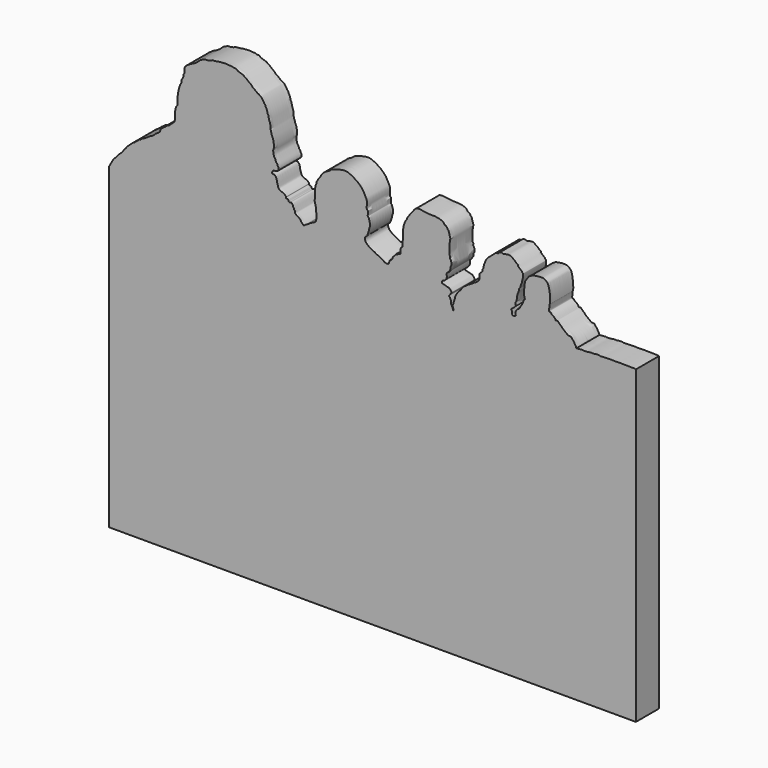
from build123d import *

# Parameters (mm, degrees)
F1_DEPTH = 6.35


with BuildPart() as f1:
    # F0 (on Front) → F1 (new body)
    with BuildSketch(Plane.XZ):
        with BuildLine():
            add(Edge.make_bspline(
                [(0, 69.85), (0.0921415418, 70.0257135189), (0.2651902471, 70.3557169346), (0.4771103669, 70.7393851652), (0.7713646416, 71.2815260113), (1.1131797321, 71.7793443846), (1.6290144424, 72.1522957372), (1.8640143104, 72.5727362219), (2.1586858553, 72.8923247189), (2.4541636377, 73.1359866452), (2.8241609081, 73.4610824382), (3.2267824858, 74.0021208965), (3.3548072506, 74.2509797523), (3.5398348626, 74.4192446976), (3.661690047, 74.5498463511)],
                knots=[0, 0, 0, 0, 0.0895319873, 0.168276062, 0.2606440338, 0.3537023041, 0.4472659724, 0.5293069206, 0.6064984634, 0.6790239896, 0.7637287207, 0.8604400657, 0.9223883982, 1, 1, 1, 1], degree=3))
            Line((0, 69.85), (0, 0))
            Line((0, 0), (115.8876510678, 0))
            Line((115.8876510678, 0), (115.8876510678, 68.2625))
            add(Edge.make_bspline(
                [(102.7780920267, 68.0728703737), (103.0678526313, 68.1091249913), (103.5630289883, 68.1710810654), (103.9755503207, 68.1686094663), (104.2438187478, 68.2602536473), (104.4337731285, 68.1018635069), (104.6805917106, 68.1632475428), (105.1597091029, 68.1369110626), (105.5886693797, 68.2329310081), (105.8545126294, 68.2985313298), (106.3511941076, 68.3054926155), (106.690545775, 68.2523940546), (106.9059132255, 68.3715837515), (107.6722912768, 68.3721563013), (107.9230605066, 68.3564220442), (107.9940160777, 68.2639735607), (108.3827468802, 68.2911397377), (108.9118144358, 68.3479626442), (109.183209054, 68.3277932011), (110.1538964831, 68.3718771815), (110.6467821017, 68.3771900777), (111.2721718397, 68.3189259448), (111.7344498981, 68.3314473002), (112.2333187348, 68.3824043852), (112.8793591764, 68.3435339768), (113.5308477817, 68.3531401717), (113.822361786, 68.3523321028), (114.3907709162, 68.3476948109), (114.9297272261, 68.3672236809), (115.3192185885, 68.3085816464), (115.6068065695, 68.3402632957), (115.7937041915, 68.2885130384), (115.8876510678, 68.2625)],
                knots=[0, 0, 0, 0, 0.0464620486, 0.0793997099, 0.1053517652, 0.1289190666, 0.1540158417, 0.1900576442, 0.2240856925, 0.2513038119, 0.287611369, 0.3170480385, 0.3425220982, 0.3877715338, 0.4129597099, 0.4281077432, 0.4594708574, 0.4971721798, 0.5252242019, 0.5750243853, 0.6131794684, 0.6531364958, 0.6883438958, 0.7244107563, 0.7667273023, 0.8078596891, 0.8359120647, 0.8743241361, 0.9129914879, 0.9450230897, 0.9723650363, 1, 1, 1, 1], degree=3))
            add(Edge.make_bspline(
                [(82.4942365289, 77.6973888278), (82.5288113961, 77.775026942), (82.6080235874, 77.9528984901), (82.7423090133, 78.3733890894), (83.1218262299, 79.1141031693), (83.5780231005, 79.4990641424), (83.8444900761, 79.6981420627), (84.1585140435, 79.9687925898), (84.4756569501, 80.2497419341), (84.8517460296, 80.60221357), (84.9721520059, 80.7100466151), (85.1401109076, 80.8234064463), (85.252854827, 80.8570062282), (85.4785303379, 80.8681916252), (85.6131673583, 80.8328306515), (85.9336802108, 81.189801597), (86.0064682382, 81.2079500995), (86.1831120323, 81.2556600253), (86.4085447023, 81.2637891766), (86.5784146669, 81.2306655764), (86.653030457, 81.1382280053), (86.9778178859, 81.1461087981), (87.1740136086, 81.2541170858), (87.5477045393, 81.2887980174), (87.7919748257, 81.3291811297), (88.0248866618, 81.3579947374), (88.2136420735, 81.3184891615), (88.5100974609, 81.196119662), (88.6522091511, 81.045416078), (88.8465764517, 80.9552095822), (88.9824073591, 80.7959078717), (89.1977764992, 80.7457339086), (89.3523170766, 80.5113339918), (89.5608900454, 80.323632325), (89.7039830934, 80.179297153), (89.9458712487, 80.1667926046), (89.9658007762, 79.7519301323), (90.1532228989, 79.658935211), (90.3801916197, 79.4621341458), (90.5437022861, 79.3319395064), (90.70435884, 79.1813163643), (90.866401295, 79.0523892631), (90.8362722249, 78.8580890743), (91.0691790354, 78.8257033345), (91.0868089015, 78.5287986712), (90.9902330472, 78.235604763), (91.0823134452, 78.0633396014), (91.0296901702, 77.7919626591), (90.9063895954, 77.5156379858), (90.8634861917, 77.1950644261), (90.8354239076, 76.9103964668), (90.6385681372, 76.5815562118), (90.5751177739, 76.3412180448), (90.4637324957, 75.9616028729), (90.4281221822, 75.7123534716), (90.1591098071, 75.5835206024), (90.180440435, 75.3316426558), (90.1151250477, 74.9319468329), (89.9238228092, 74.5535229612), (89.8284133652, 74.2625213488), (89.7511194969, 73.940920216), (89.7985381327, 73.7929534349), (89.7006828709, 73.4602794414), (89.6818187196, 73.2626852535), (89.6042172212, 73.1075121496), (89.6377120666, 72.9887654768), (89.6029010853, 72.777134574), (89.3506630936, 72.669094677), (89.4088491694, 72.3780792202), (89.4422424881, 72.1630873451), (89.5209143767, 72.0268269672), (89.2871964916, 71.803136052), (89.2252091376, 71.6020867573), (89.0206618615, 71.5258314116), (88.9183444526, 71.3919098736), (88.7932479956, 71.3126596359), (88.6493437077, 71.1999517769), (88.5485147361, 71.1276424726), (88.4304741817, 71.0140555834), (88.5044945938, 70.9264918817), (88.5546007889, 70.8010669044), (88.6347314234, 70.633114588), (88.6632439182, 70.4693258358), (88.6512892399, 70.304310775), (88.6327197522, 70.0958992619), (88.7082020231, 69.9473148196), (88.8569212037, 69.9149248455), (89.0053255912, 69.8881206529), (89.2076090358, 69.8853306801), (89.3369747072, 69.9923057712), (89.5024516146, 70.1189427473), (89.419553172, 70.3359400008), (89.436816232, 70.5182813215), (89.4591281922, 70.8434001884), (89.471964737, 70.9901464146), (89.5628730954, 71.1172801027), (89.7123302789, 71.3118186597), (89.8834096733, 71.430573839), (89.9161325485, 71.5915502098), (90.0706706378, 71.5434545555), (90.2132525354, 71.6367788185), (90.3173481568, 71.8256760988), (90.4504001196, 72.0445889158), (90.5627351352, 72.2711564045), (90.6867337239, 72.4322301619), (90.8163804962, 72.5848279695), (90.8885943801, 72.7922439498), (90.9734542599, 72.9064105256), (91.0146968545, 73.1392744078), (91.1090285579, 73.2786147693), (91.1427259, 73.4036533396), (91.1662873099, 73.619767885), (91.3138970954, 73.6893703374), (91.4131530974, 73.8208700029), (91.4515215018, 73.8775481006), (91.4414999232, 74.0375096769), (91.4306726532, 74.2055367266), (91.3920296155, 74.4372815751), (91.2475781995, 74.6265788909), (91.2798845607, 74.9187969299), (91.3147216779, 75.1810440875), (91.31464946, 75.432583523), (91.2811082193, 75.692020339), (91.3306350254, 75.9555644759), (91.3758680773, 76.2419145797), (91.3811404437, 76.6961063978), (91.4683250518, 77.1092753228), (91.5218057931, 77.439712131), (91.7550388776, 77.6895663835), (91.8833326042, 78.0055531165), (92.1500900976, 78.2683026591), (92.2719614902, 78.540934205), (92.6214043856, 78.7613942972), (92.8549574034, 78.9000802787), (93.1687653249, 79.0842072414), (93.5941479267, 79.1529949509), (93.9373872163, 79.2180173487), (94.2565841786, 79.2712361347), (94.6047368385, 79.3173575762), (94.8752908201, 79.3047145342), (95.2743003685, 79.31235156), (95.5747571205, 79.2969075024), (95.900291388, 79.1550673796), (96.3088467063, 78.8198696398), (96.568577426, 78.5050439708), (96.691423625, 78.115190665), (96.8111575707, 77.6527989515), (96.8334028984, 77.4484133717), (96.8810426942, 77.2615255967), (96.8792903596, 77.0400440183), (96.9449165305, 76.8469618236), (96.9771592438, 76.6573778621), (96.9617309753, 76.3004696093), (96.9822226857, 76.0387438546), (96.9761296148, 75.6792017498), (97.0522556666, 75.5850829026), (97.0347625265, 75.3432302619), (97.0144579573, 75.0759188521), (97.0091413974, 74.9225468716), (97.0419469487, 74.7211249534), (96.8277748996, 74.7500310887), (96.90941757, 74.4340866509), (96.8402406334, 74.1135156342), (96.8272015258, 73.7597699169), (96.7614738254, 73.5668982934), (96.7952281269, 73.4096498088), (96.8251162808, 73.2386122446), (96.9961693694, 73.1944369165), (97.1326917858, 73.2142981347), (97.2076574752, 73.0272237153), (97.3770305277, 72.9175402217), (97.5918724029, 72.7354152159), (97.8127776913, 72.6137603644), (98.0176588651, 72.3733277881), (98.1940552123, 72.2292767364), (98.2059448108, 71.9757963323), (98.4704712528, 72.0331786732), (98.680629636, 72.0639328539), (98.792317189, 71.8854779093), (98.9855331196, 71.7322699582), (99.2092864859, 71.4788307334), (99.4565903443, 71.3556751789), (99.6715103865, 71.0086040072), (99.9307665495, 70.8208752601), (100.1952639606, 70.6207864569), (100.412161518, 70.4048818077), (100.6808014427, 70.2370768487), (100.9199568082, 70.0315157179), (101.1876277214, 69.9439036165), (101.4072994066, 69.9346778276), (101.6586791189, 69.9359381624), (101.8536407819, 69.6443213341), (102.1495495994, 69.2977872447), (102.3651298857, 68.951685965), (102.472759003, 68.7494849622), (102.5779211675, 68.5416132411), (102.7199362191, 68.4026241218), (102.7570118835, 68.192398526), (102.7780920267, 68.0728703737)],
                knots=[0, 0, 0, 0, 0.0053209742, 0.012190532, 0.0216795232, 0.0296244018, 0.0355343219, 0.0420496961, 0.0490232063, 0.0563339465, 0.0605867726, 0.0650432073, 0.0686955716, 0.0734472436, 0.0772997502, 0.0841731997, 0.0871351432, 0.0913876443, 0.0964391834, 0.1005778128, 0.1039598963, 0.1095619931, 0.1146358287, 0.1208566808, 0.1261235766, 0.1309834991, 0.1355623991, 0.1413383179, 0.1460676486, 0.1507625295, 0.1554101875, 0.1600932982, 0.1654936772, 0.1710180059, 0.1755996291, 0.1801405549, 0.1862419433, 0.1908801346, 0.1964840098, 0.2012779114, 0.2061382898, 0.2107049033, 0.2147273572, 0.2190291907, 0.2243116232, 0.2300338635, 0.2343982485, 0.239665946, 0.245427463, 0.2512472629, 0.2568129503, 0.2630623828, 0.2683463223, 0.2747995521, 0.2799051442, 0.2850424527, 0.2899281238, 0.2965332556, 0.3032690934, 0.3091156904, 0.3148602238, 0.3189356023, 0.3248920092, 0.3296521828, 0.3337384274, 0.3373075136, 0.3418389342, 0.3468128505, 0.3521033197, 0.3570105302, 0.3606981865, 0.3662710666, 0.3710236468, 0.3756247352, 0.3798134552, 0.3838009011, 0.3881690351, 0.3919773759, 0.3957857901, 0.3988985117, 0.4027449331, 0.4072130091, 0.4113923767, 0.4156141681, 0.4203327279, 0.4243252639, 0.4281836227, 0.4322737172, 0.4367891974, 0.4410318417, 0.4454347691, 0.4500333316, 0.4546150775, 0.4604840806, 0.4644181538, 0.4683817492, 0.473542257, 0.4782843105, 0.4819474282, 0.4856038054, 0.4897029173, 0.4944918944, 0.499776703, 0.5049768061, 0.5096122832, 0.5142477604, 0.5190038395, 0.5229259927, 0.5278795881, 0.5320824121, 0.5358238393, 0.5404358772, 0.5445336637, 0.5486316239, 0.551289683, 0.5552646087, 0.5596264048, 0.5645595306, 0.5694977199, 0.5749716543, 0.5803428634, 0.5855039707, 0.5907673936, 0.5960487119, 0.6016170392, 0.6085913877, 0.6153749041, 0.6212486282, 0.6271525236, 0.6331991465, 0.6394238555, 0.6450620236, 0.651550297, 0.6570149194, 0.6631621489, 0.669960158, 0.6760811211, 0.6819776122, 0.6880264008, 0.6934762638, 0.6999562612, 0.705604032, 0.7116800336, 0.7191945511, 0.7257546452, 0.7324063173, 0.7395258741, 0.7441960504, 0.7486449283, 0.7535082938, 0.7581039584, 0.7626556933, 0.7687287165, 0.7743201477, 0.7803130203, 0.7837759154, 0.7887344913, 0.7941446268, 0.798378823, 0.8024363415, 0.8060593809, 0.8112208877, 0.8174228268, 0.8235454395, 0.8281249048, 0.8322227602, 0.8363171435, 0.8404109576, 0.8440025682, 0.8482742433, 0.8529637067, 0.8584091103, 0.8636513341, 0.8694213295, 0.8743574983, 0.8788545291, 0.8837061283, 0.8883511308, 0.8927580323, 0.8979598275, 0.9039079325, 0.9093325045, 0.9157997275, 0.9216979349, 0.927607908, 0.9333232572, 0.9391327347, 0.9449421723, 0.9503422636, 0.9552021862, 0.9600871606, 0.9659784734, 0.9731211287, 0.9796985467, 0.9846566948, 0.9895276918, 0.9940457505, 1, 1, 1, 1], degree=3))
            add(Edge.make_bspline(
                [(43.7057316303, 72.9141160846), (43.7517167858, 72.9455266256), (43.8457670167, 73.0097684141), (43.9988094805, 73.1039682242), (44.2012531325, 73.2214072182), (44.3590761202, 73.3212083588), (44.5814169711, 73.4580187209), (45.0072799942, 73.6557445959), (45.2095246456, 73.7490898656), (45.3197418667, 73.8519630724), (45.4341935095, 73.9322952768), (45.5155073368, 74.0720484974), (45.5656583917, 74.257701019), (45.5841274511, 74.4891392677), (45.6313410469, 74.7233686889), (45.6007136481, 75.0131117142), (45.6214127477, 75.2997920258), (45.5751569853, 75.5100705231), (45.5928104168, 75.7449539401), (45.5703882864, 75.9179502435), (45.5381510043, 76.0654188175), (45.5828115796, 76.2696739691), (45.5015983995, 76.5654767793), (45.5030966923, 76.8034564269), (45.4417253555, 76.9722146342), (45.3912296815, 77.1356972304), (45.3524852314, 77.3408689867), (45.3143159238, 77.5896926163), (45.2433574215, 77.7526719332), (45.2570198965, 78.0013028143), (45.2439392833, 78.1911806291), (45.2862639065, 78.4409697272), (45.2695000944, 78.6778026409), (45.3376012107, 78.9774631158), (45.3711345608, 79.3180143946), (45.2768008561, 79.6862490087), (45.2909859349, 79.9529110342), (45.3167338608, 80.2595716599), (45.3680755482, 80.5320350196), (45.3981232133, 80.8782685533), (45.4564054233, 81.104850597), (45.6326616913, 81.3099216489), (45.5419379112, 81.5556167991), (45.7677484719, 81.8716842039), (45.9417928628, 82.1572811868), (46.0237125832, 82.4540425767), (46.3517462501, 82.6997001273), (46.4646959309, 82.9738644817), (46.6045558149, 83.2590340976), (46.9022806817, 83.6351224458), (47.3823744825, 84.2524840282), (48.1188109045, 84.5679882886), (48.6723331571, 84.9141191188), (48.8140593854, 85.1322590095), (49.203633398, 85.2988019026), (49.812349932, 85.4358619147), (50.1406276319, 85.6731419255), (50.7788594278, 85.7269762779), (51.2567615181, 85.8748213032), (51.6754276237, 85.9098574329), (52.1708326629, 85.9036337283), (52.6271729734, 85.8135083524), (52.957288485, 85.6176999011), (53.3071258247, 85.5287758998), (53.7234684613, 85.3585695682), (54.0539162084, 85.0149632335), (54.5639852232, 84.7409282531), (55.0041346274, 84.3740841436), (55.3881872996, 83.9601598511), (55.6934759114, 83.696527623), (55.9179510016, 83.3292064553), (56.1481176433, 82.9031106519), (56.5022050398, 82.2297556025), (56.6577035451, 81.846029488), (56.7154258248, 81.6690597297), (56.6901663307, 81.2260737959), (56.7177183656, 80.742368264), (56.6449181356, 80.2908637973), (56.7257090301, 79.9564091453), (57.0167102067, 79.7876134942), (56.8880744928, 79.5565179022), (56.9536770746, 79.1120216628), (56.8694385665, 78.8599624429), (56.9518015876, 78.5642180524), (57.1330221025, 78.5742371707), (57.1470030504, 78.2784194439), (57.2767463654, 78.0144653488), (57.3652672613, 77.6233685616), (57.3953894028, 77.2892426122), (57.3974306215, 76.8172403978), (57.2698189618, 76.599236418), (57.190876091, 76.3635208846), (57.1916457827, 75.9942423657), (57.0252456316, 75.6635080435), (56.9694940576, 75.4156303313), (56.862223324, 75.123527248), (56.7731050636, 74.8984184659), (56.5237605691, 74.6600150215), (56.3561848884, 74.6221514493), (56.3255831227, 74.3985995894), (56.3283510203, 74.0982326981), (56.3542033884, 73.8577822483), (56.4856739753, 73.5907885052), (56.7440289082, 73.2759696196), (57.367545993, 72.794303385), (57.8098319544, 72.5940911977), (58.1855810695, 72.3425159251), (58.4150865805, 72.3052810673), (58.6940396414, 72.0964269008), (58.9326424809, 71.9075306008), (59.1328190647, 71.9184614189), (59.3673566848, 71.8716768529), (59.5080861315, 71.6817802835), (59.8106005787, 71.5892591736), (60.0347407193, 71.4025657174), (60.208307963, 71.3132838915), (60.4563303118, 71.2054945077), (60.5822721621, 71.0146559485), (60.743671532, 71.0240035773), (60.8927789656, 70.8984701368), (61.1172688002, 70.9659284331), (61.2187344213, 70.9049560965), (61.4436819211, 70.931263432), (61.5056863278, 70.9456121011), (61.5436891803, 71.0840084704), (61.5576765336, 71.1957019219), (61.6233077139, 71.3888919566), (61.6841672573, 71.5676530277), (61.7225825959, 71.7343503409), (61.8392114129, 71.8816251793), (62.0259554909, 71.9171115682), (62.1949546299, 72.0758299443), (62.348488184, 72.2677879138), (62.4124866804, 72.553250154), (62.4992725828, 72.7303487974), (62.6682771339, 72.7902807665), (62.8193122203, 73.0155659262), (62.9694263862, 73.1936107396), (63.0203417643, 73.3785228251), (63.2609130276, 73.4263221879), (63.3668618811, 73.4302441012), (63.5508515359, 73.544635477), (63.658914377, 73.5689037692), (63.7678067141, 73.6959797706), (64.0554396044, 73.6406609452), (64.1100536128, 73.9553560005), (64.1154495904, 74.3882141128), (64.0971483256, 74.5445727509), (64.0865023294, 74.7563107867), (64.2427418191, 74.9984033749), (64.3993418749, 75.1894326195), (64.6264930957, 75.2684518769), (64.5376030666, 75.684241493), (64.5857079488, 76.291304685), (64.6276801775, 76.7567599784), (64.7161729308, 77.0298538678), (64.6830138717, 77.3896324133), (64.6809288175, 77.7807066414), (64.6909564847, 78.1712179205), (64.6907379606, 78.8030219849), (64.7346791941, 79.2234957135), (64.764189408, 79.4776049165), (64.8953560746, 79.651538951), (64.9331551082, 79.8584054746), (65.0564250269, 80.1881497582), (65.2034951598, 80.5292483845), (65.3464908178, 80.7550591173), (65.5123440428, 80.9386097316), (65.579345395, 81.1436881767), (65.6782575824, 81.3860486134), (65.861264836, 81.5911807887), (66.041302867, 81.8567181689), (66.1589597315, 82.1211082073), (66.3328439988, 82.3068646438), (66.509772593, 82.5525518048), (66.6610982746, 82.6600478835), (66.8493898885, 82.8882709924), (66.956939477, 83.0105131337), (67.0312827288, 83.1908322336), (67.1844335758, 83.3793914109), (67.3155477125, 83.5257123875), (67.5576266692, 83.7049785843), (67.7297705607, 83.7425825389), (67.9316491071, 83.7923050231), (68.2087127315, 83.8109913553), (68.3996638997, 83.8139411099), (68.6653050149, 83.7821864282), (68.9061263973, 83.7291200914), (69.2345099547, 83.6761105716), (69.5274284327, 83.6703609946), (69.9063696949, 83.5922541132), (70.2506719223, 83.5680322903), (70.5231737914, 83.5327384719), (70.8255924712, 83.5473828015), (71.083530196, 83.5246203648), (71.3597074816, 83.5289161354), (71.607790488, 83.5340288347), (71.8477189792, 83.5104525472), (72.0673210221, 83.4592189378), (72.2876646497, 83.4352753759), (72.5180788332, 83.4021540397), (72.7107919788, 83.4175313582), (72.7937770545, 83.3296178358), (72.9695384303, 83.2622351026), (73.1115012235, 83.2290434702), (73.2885456415, 83.1159873686), (73.4731088947, 83.046042807), (73.6373770663, 82.8628278047), (73.7267415101, 82.735130869), (73.8472850777, 82.5492886024), (74.0864009031, 82.494977169), (74.307229949, 82.2610830793), (74.3959662579, 82.1039422904), (74.4518244536, 81.9413573253), (74.5623097798, 81.8814743504), (74.6745154406, 81.8082491362), (74.7129560047, 81.6133138653), (74.7590463767, 81.4809109173), (74.761137282, 81.3016021966), (74.8722775367, 81.1896769736), (74.861490482, 81.0390536773), (74.9083550475, 80.8501359225), (75.0048003324, 80.718142224), (75.0242923994, 80.5101967813), (75.1192439706, 80.2976742773), (75.0406180709, 80.154936859), (74.9739641434, 80.0023521945), (74.9661669212, 79.8438279583), (74.9900938645, 79.7052181892), (74.9743976967, 79.549241621), (74.8374193504, 79.4670545837), (74.9389331106, 79.2429863275), (74.8727996984, 78.5534510475), (74.9293323106, 78.1126226584), (74.8927267595, 77.6552649944), (74.9288566932, 77.3559174722), (74.8793468714, 76.9324308124), (75.1245530939, 76.834757941), (74.9574508527, 76.3792847225), (75.1819636257, 76.2811749575), (75.2051387477, 75.9354662754), (75.37566732, 75.7899435657), (75.2749004172, 75.3406728785), (75.2761852125, 75.0312903254), (75.0529447232, 74.9040094694), (75.1263899101, 74.5355103233), (75.0273392427, 74.22162251), (74.8209672146, 73.9559936113), (74.7276332226, 73.8002571147), (74.6799633679, 73.6301198306), (74.5492879034, 73.5591250327), (74.4053522582, 73.5039368947), (74.2673552208, 73.3616094923), (74.269706219, 73.0525513458), (74.3145903807, 72.699090988), (74.2683649494, 72.4020589567), (74.1518559366, 72.1597632919), (73.9814453872, 72.0251393685), (73.8293775866, 71.7667031668), (73.5979851791, 71.7104343369), (73.368048313, 71.6937296498), (73.25620153, 71.5241909805), (73.1733217125, 71.0656595012), (73.494242993, 71.0283223602), (73.7913046656, 70.9268111615), (74.0926205619, 70.8493632946), (74.2989593129, 70.7991315835), (74.5454457177, 70.694883679), (74.8169359898, 70.6961367938), (74.9719652042, 70.4717304634), (75.1302748416, 70.3854938903), (75.2204692295, 70.2118488336), (75.297134417, 70.0756584049), (75.3678285786, 69.9850127793), (75.3111623829, 69.8192980332), (75.1327706082, 69.640706804), (75.0087815867, 69.463783305), (74.8397682451, 69.221647825), (74.7900989908, 69.0594257942), (74.957237798, 68.9677464932), (75.0181610401, 68.7980616485), (75.0893794951, 68.6346931618), (75.2469543896, 68.3448761776), (75.1552329378, 67.9989143179), (75.2308754539, 67.7208611066), (75.3524824177, 67.5028009883), (75.5346478768, 67.0955126938), (75.6561215824, 66.8418177655), (75.6661116918, 66.5212376846), (75.7957702994, 66.6061603303), (75.714236622, 66.9524658519), (75.6235759344, 67.2422666476), (75.5437151183, 67.5574667777), (75.745047657, 67.8727798821), (75.8123987882, 68.3136661673), (75.9972609577, 68.6770083187), (76.0655330156, 69.0206353551), (76.129414817, 69.3990266168), (76.2451612569, 69.7300057967), (76.560851901, 70.1423187513), (76.7167102884, 70.4891690791), (77.066617605, 70.8504446649), (77.3326622295, 71.0448211378), (77.4817253783, 71.3540545214), (77.7140438752, 71.5560828323), (77.8227593872, 71.8522339954), (78.2354466429, 72.0882358813), (78.5955605258, 72.3932693165), (79.0702004576, 72.7021302349), (79.780482431, 73.0799791677), (80.0663635437, 73.3330749066), (80.5332050095, 73.5677816351), (80.8940747125, 73.8318649385), (81.2464792382, 74.0714034291), (81.3433764474, 74.3235309864), (81.4525604712, 74.4832206875), (81.464603708, 74.7636303452), (81.4289556836, 75.0493441422), (81.4415262437, 75.4413659743), (81.5686776675, 75.7247825349), (81.6867210704, 75.8445418684), (81.8579434819, 75.958025037), (82.0130286889, 76.1304362881), (82.149681236, 76.2286782971), (82.1353844434, 76.5104501806), (82.1346247846, 76.6798445645), (82.2917757079, 76.8098115821), (82.3551931527, 76.9128938505), (82.421062199, 76.9893513309), (82.3888442818, 77.3154426756), (82.4573528516, 77.5637207543), (82.4942365289, 77.6973888278)],
                knots=[0, 0, 0, 0, 0.002378802, 0.0048651979, 0.0076680152, 0.0101543844, 0.0131498333, 0.0171648796, 0.0199239668, 0.0221168081, 0.0242651779, 0.0265632538, 0.0291126991, 0.0319101286, 0.0347516012, 0.0378987073, 0.0410095221, 0.043711791, 0.0465158077, 0.0489402475, 0.0511484063, 0.0537687986, 0.0569949328, 0.0598417436, 0.0622647289, 0.0646473692, 0.0673298857, 0.0702318789, 0.0726944993, 0.0755347296, 0.0781140687, 0.0809959057, 0.083836136, 0.0870311816, 0.0904610907, 0.0940126737, 0.0970310573, 0.100211483, 0.1033254954, 0.1067310389, 0.109566111, 0.1124211026, 0.1151909374, 0.1187177621, 0.1221231286, 0.1252980972, 0.1289348107, 0.1320769007, 0.1352854341, 0.1392991076, 0.1444102139, 0.1497135056, 0.1543115766, 0.1571639807, 0.1608690053, 0.1654598083, 0.1691648484, 0.1737436955, 0.1778922072, 0.1816305552, 0.1857273883, 0.1896899782, 0.1932474883, 0.1967298728, 0.200576785, 0.2045796052, 0.2089857189, 0.2134316891, 0.217788781, 0.2214711784, 0.2251900153, 0.2293072535, 0.2344429174, 0.2381220988, 0.2405574301, 0.2443501909, 0.2485049583, 0.2524259135, 0.2557530836, 0.2587795285, 0.2614732484, 0.2653287321, 0.2684331893, 0.2713732888, 0.2734439373, 0.2763305698, 0.2795898847, 0.2832107345, 0.286678539, 0.290610929, 0.2934948388, 0.2963342073, 0.2998629429, 0.3033753626, 0.3063309315, 0.3095184381, 0.3124470855, 0.3157925538, 0.3180470376, 0.3206257115, 0.3238635632, 0.3267191372, 0.329781466, 0.3335219205, 0.338664612, 0.3428481176, 0.3466362892, 0.3494137611, 0.3528237227, 0.3559960542, 0.3585454808, 0.3612896315, 0.3640442015, 0.3672917301, 0.3704105747, 0.3729943338, 0.3759985241, 0.3786691363, 0.3808579045, 0.3833357695, 0.3859938691, 0.3880213559, 0.3907170333, 0.3921259764, 0.3941927978, 0.3962205714, 0.3988203483, 0.4013828976, 0.4037782547, 0.4061988902, 0.4086767753, 0.411431316, 0.41432776, 0.4174714326, 0.419966511, 0.4223260296, 0.4253336819, 0.4281680509, 0.4305956713, 0.4333019178, 0.4352859662, 0.4379137944, 0.4398635885, 0.4421070605, 0.4449010438, 0.4479074187, 0.4517885915, 0.4541145986, 0.4566806387, 0.459791136, 0.4627009347, 0.4652172065, 0.4687322994, 0.4734083445, 0.4773731354, 0.4804333762, 0.4838866169, 0.4875068244, 0.4911822991, 0.4958272439, 0.499648975, 0.502516723, 0.5051347593, 0.5077713327, 0.5112336907, 0.5148133052, 0.5178232915, 0.520662892, 0.5233511639, 0.5262937988, 0.5293521534, 0.5326540468, 0.5357610054, 0.5387193276, 0.5418634796, 0.5444252614, 0.5475412387, 0.5499086282, 0.552439127, 0.5552787009, 0.5579217618, 0.5610588687, 0.5634935346, 0.5661386132, 0.5691891666, 0.5717680654, 0.5747218191, 0.5776573159, 0.5809742485, 0.5841537322, 0.5877669421, 0.5911950358, 0.5942455927, 0.5974200447, 0.600399437, 0.6034442494, 0.6063536948, 0.6092000711, 0.6119549448, 0.6146980855, 0.6175444618, 0.6200061218, 0.6219562257, 0.6244340706, 0.6266921522, 0.6293099589, 0.6319277458, 0.6347529483, 0.6370946878, 0.639714868, 0.6425631266, 0.6458114115, 0.6483266918, 0.6506524956, 0.6526602833, 0.6547304048, 0.6572553328, 0.659488583, 0.6618831762, 0.6640912995, 0.666299515, 0.6688400555, 0.6711658593, 0.6738194752, 0.676554637, 0.6788129306, 0.6811827371, 0.6834756197, 0.6856790459, 0.6879021949, 0.689940746, 0.6925678821, 0.6974001379, 0.701430925, 0.7052537826, 0.7085724572, 0.7121452852, 0.7147225212, 0.7183488825, 0.7209261867, 0.7241670582, 0.7267950796, 0.7306314607, 0.7338287838, 0.7364506236, 0.7398218455, 0.7432071035, 0.7465441659, 0.7490392568, 0.751390424, 0.7535611932, 0.7558369157, 0.7582926404, 0.761465758, 0.7649842401, 0.7681712607, 0.7711095068, 0.7738253325, 0.7769220273, 0.7797177512, 0.7823856271, 0.7849628915, 0.7885892528, 0.7914988992, 0.7948515828, 0.798075449, 0.8007608284, 0.8037460569, 0.8066970809, 0.8096068637, 0.8120625161, 0.8145973529, 0.8169133137, 0.8187716662, 0.8210633165, 0.8239791608, 0.8267579007, 0.8299308811, 0.8320981461, 0.8344347479, 0.8368624639, 0.8393371788, 0.842596831, 0.8460364783, 0.8490708803, 0.8520071111, 0.8558469198, 0.8591510069, 0.8620313517, 0.8635285587, 0.866884428, 0.8702485528, 0.8734150715, 0.8768804625, 0.8807742405, 0.8844733586, 0.8879141659, 0.8914754502, 0.8949408751, 0.8990729068, 0.9027311528, 0.9067931293, 0.9101467866, 0.9134838805, 0.9166672197, 0.9198402001, 0.9237697776, 0.927767522, 0.9322182017, 0.9373964249, 0.941041034, 0.9451580459, 0.9491387717, 0.9528788728, 0.9558186813, 0.9583319168, 0.9613261997, 0.9645020362, 0.9681554741, 0.9713476064, 0.9736865931, 0.9763123911, 0.9791124751, 0.9814127247, 0.9843945422, 0.9867824568, 0.9893179024, 0.9913258284, 0.9930509976, 0.9962587927, 1, 1, 1, 1], degree=3))
            add(Edge.make_bspline(
                [(3.661690047, 74.5498463511), (3.7014516235, 74.6047661295), (3.7878521727, 74.7241049341), (3.9702399484, 74.978467067), (4.1121445813, 75.0975348586), (4.4154473126, 75.435513839), (4.7387919107, 75.6478369771), (4.9953532609, 75.962465927), (5.1951935065, 76.0603817471), (5.3588927759, 76.2891482942), (5.5844639592, 76.2096286792), (5.8424978319, 76.5682828683), (6.1542196803, 76.7672650785), (6.3411713258, 76.9640098333), (6.6045527365, 77.1466442139), (6.7296516587, 77.2688083874), (6.9174103684, 77.2389737543), (7.0757864723, 77.4194444681), (7.2339835406, 77.6148841543), (7.4409849183, 77.7101629585), (7.8229009129, 77.8332352008), (8.2353835845, 78.1345076335), (8.6441295841, 78.3376255667), (8.882952504, 78.6180269614), (9.2224251747, 78.7104927431), (9.48361963, 78.8332845421), (9.8579228868, 79.106836876), (10.1478773797, 79.4436052005), (10.4635294649, 79.68426276), (10.8224407529, 79.8380655376), (10.9488497227, 80.096996622), (11.2588353968, 80.2024244202), (11.2539572228, 80.4864986215), (11.3265956922, 80.8361058852), (11.5807769319, 80.9717909293), (11.9785176286, 81.3242016047), (12.224269387, 81.437083561), (12.4823930325, 81.6171515202), (12.5275896073, 81.7944065385), (12.7505805902, 81.846472114), (12.8624004561, 81.9822624634), (13.0065229043, 82.0642325647), (13.1593035997, 82.0262950528), (13.3340215178, 82.2186100778), (13.5295120274, 82.3857427564), (13.7940933346, 82.6025916313), (13.9552921604, 82.788721081), (14.2471204828, 83.0225653448), (14.4101948659, 83.1994332796), (14.490130279, 83.5566933682), (14.5349196291, 84.0499237118), (14.5178172818, 84.3737738377), (14.4904259084, 84.628897133), (14.5867065015, 84.7074225487), (14.5493734427, 85.0314193289), (14.5600058613, 85.3819750638), (14.6367045977, 85.8082122886), (14.7531462555, 86.0915498787), (14.7718980175, 86.3411741297), (14.9269246657, 86.4802631753), (15.0655026203, 86.6231515356), (15.0228345823, 87.0447699513), (15.0617530726, 87.4779898026), (15.082322051, 87.8492936781), (14.9910499292, 88.0271745238), (15.12968733, 88.3666632491), (15.1207921986, 88.6465249133), (15.1879400922, 89.0912303929), (15.3084641257, 89.4178865461), (15.3221854839, 89.7822190528), (15.4298603201, 90.1551267675), (15.5501930879, 90.5341932953), (15.8090597525, 91.1031444872), (16.0128015328, 91.2595647171), (15.9719571628, 91.5762920084), (15.950442809, 91.840349127), (16.175388815, 92.1334103593), (16.2844601571, 92.4332070719), (16.4219833927, 92.6762462844), (16.3370766857, 92.9694525383), (16.5254006311, 93.1628854253), (16.649634421, 93.3172521384), (16.5632339124, 93.6331370634), (16.6341525632, 93.9298060251), (16.5863682494, 94.3102408189), (16.6824954673, 94.4988644441), (16.7722482465, 94.7497498124), (16.9476886994, 94.7989931187), (17.0570239453, 94.9908520513), (17.3108561032, 95.0895881534), (17.5729463576, 95.3169831648), (17.8401330074, 95.4586623224), (18.0108937069, 95.5779679916), (18.1815489308, 95.5541191518), (18.2124402275, 95.695071338), (18.4199362202, 95.7637265943), (18.5361887102, 95.8111357381), (18.7230289051, 95.8625901692), (18.8840967413, 96.0303989558), (19.0894425317, 96.0961645032), (19.3057990072, 96.2820462587), (19.7322391522, 96.6235793183), (19.9604872906, 96.9163234003), (20.3634747192, 97.1451458935), (20.6772407742, 97.2530127256), (21.0330868628, 97.459662967), (21.3272033412, 97.4496151111), (21.7764515809, 97.4431571506), (22.0846886379, 97.5405776834), (22.5001327117, 97.6599783644), (22.6851015311, 97.8466713299), (22.8751166605, 97.8022298006), (23.1124505824, 97.8389410382), (23.4089973118, 97.8839175564), (23.6913553774, 97.8604123836), (24.0418142393, 97.9867445532), (24.3176674657, 98.0226517747), (24.603437079, 98.0475592189), (25.0073232475, 98.0545173638), (25.3391399775, 98.1273777799), (25.7468975452, 98.1103348765), (26.1286226943, 98.1023033034), (26.5059936341, 98.0269212144), (26.6985187533, 98.0657296694), (27.0743449667, 98.0419817438), (27.4563371295, 97.8849754361), (27.7313583046, 97.889387211), (28.0542004992, 97.8585549584), (28.2684333432, 97.5665784988), (28.5144220578, 97.5176484608), (28.8788366809, 97.36274893), (29.1909506443, 97.2675938366), (29.5255276657, 97.1769763431), (29.804214032, 96.9457101778), (30.0477304073, 96.7860412523), (30.2603245655, 96.7039144818), (30.3270941946, 96.53977031), (30.6280854656, 96.3962460123), (30.7769358933, 96.187167134), (30.9712001981, 96.0724316732), (31.1908865622, 95.9318462342), (31.4492263719, 95.665543438), (31.5384588939, 95.50786647), (31.7047132127, 95.3840169023), (31.9190912511, 95.2434907265), (31.9928705943, 95.1815483944), (32.1518037609, 95.1434274602), (32.1951419978, 94.9858611161), (32.3027501674, 94.9625226592), (32.4403425437, 94.8698526061), (32.5430490143, 94.8137573581), (32.6037889129, 94.7102189898), (32.73937257, 94.5904632624), (32.9564707577, 94.5796784447), (33.0330009122, 94.431062406), (33.2065378876, 94.3713375928), (33.3995806677, 94.2842106778), (33.4793920283, 94.2130571998), (33.5712626995, 94.1318084524), (33.6328774224, 93.9281990239), (33.8175528353, 93.7974908456), (33.9018930516, 93.5642807302), (34.0495962822, 93.3932573639), (34.0737827984, 93.2261259252), (34.2496496065, 93.0736367208), (34.3903008564, 92.9086775558), (34.4264943634, 92.5811139884), (34.6172271706, 92.4007067466), (34.7011861106, 92.1429131263), (34.7255004472, 92.0450932307), (34.7279588728, 91.8698339133), (34.8670493829, 91.7772580915), (34.8513694237, 91.5955312812), (34.8543552128, 91.4245954523), (34.9765708132, 91.3347440643), (35.02901624, 91.2108715834), (35.0838105788, 90.9994613405), (35.098200984, 90.7911778128), (35.1653163676, 90.5282799045), (35.2192387848, 90.3245990089), (35.3191779789, 90.0689788657), (35.3883301755, 89.8141979314), (35.4870126709, 89.5264619954), (35.4522191895, 89.369539526), (35.5157722476, 89.135662285), (35.4643488661, 88.9968107428), (35.5215954742, 88.7175281749), (35.4467687857, 88.5094211917), (35.6831535984, 88.4403852087), (35.5818139958, 88.188846556), (35.6760039016, 88.0118806615), (35.793734605, 87.8966591777), (35.761089978, 87.5869770756), (35.9025951474, 87.4210293374), (35.9219419904, 87.1523294551), (36.0688043659, 87.0539622713), (36.1164785426, 86.7802361815), (36.1985290594, 86.451598021), (36.2387793327, 86.1404123196), (36.2592938158, 85.8424433407), (36.3089244891, 85.6434951855), (36.2822323368, 85.3454856743), (36.32538318, 85.1614844327), (36.1997584421, 85.04817068), (36.1357444777, 84.9430895226), (36.1104832328, 84.7116156064), (36.1240620651, 84.3693053065), (36.1933211416, 84.0614923797), (36.2479239939, 83.77407108), (36.3785218304, 83.4140628867), (36.5121568246, 83.2971952085), (36.647024986, 83.1097056146), (36.6559680998, 82.8735128388), (36.7523232385, 82.6428798497), (36.9503441081, 82.4708427487), (37.0241617412, 82.3626680844), (37.0632322748, 82.0564169903), (37.2457159885, 81.9277582852), (37.2805952643, 81.6288533008), (37.2758751251, 81.3670929179), (37.195221809, 81.1018015514), (36.9899740282, 80.98940945), (36.777523891, 80.8553180872), (36.5526957855, 80.9578225486), (36.3564259119, 80.8207253747), (36.1501608445, 80.8651449974), (35.9728140907, 80.6342271833), (35.8486560667, 80.358976584), (35.9061254212, 80.1470336357), (36.1444822936, 80.1047607681), (36.3290419212, 80.1489488242), (36.570003048, 79.9762522156), (36.7995147357, 79.6590720102), (36.8893201507, 79.3109280439), (36.9229511461, 78.9271924106), (37.0464481707, 78.5322109782), (37.2000784618, 78.127439291), (37.2473090471, 77.7610246422), (37.4183958592, 77.6015649314), (37.6518387668, 77.4917287996), (37.8233097364, 77.349383962), (38.0979646911, 77.2552617173), (38.2616608316, 77.2648465408), (38.4687557417, 77.1363916679), (38.6534390365, 76.9779655222), (38.7417609573, 76.8406577817), (38.9694568404, 76.7172960601), (38.8906456161, 76.5318066156), (38.8666323114, 76.3817626782), (39.0609548826, 76.3222255195), (39.2822959868, 76.3201829054), (39.3974670613, 76.2805605684), (39.4755229263, 76.1128800212), (39.4989647026, 75.9736766805), (39.6136260279, 75.7782184568), (39.8318293008, 75.892560438), (40.0119910975, 75.912024645), (40.1596991798, 75.8656743396), (40.3035655444, 75.7189837989), (40.4544039473, 75.5257144135), (40.4262655764, 75.2534827039), (40.6456313681, 75.12658654), (40.6307409839, 74.8584661163), (40.7389261796, 74.7339350894), (40.9851741281, 74.426084174), (40.858484022, 74.2320742014), (41.0219672384, 74.0429372322), (41.2359685366, 73.8294381959), (41.5384681237, 73.7019926455), (41.8266428023, 73.5154854855), (41.9407963921, 73.3574475107), (42.2078312539, 73.1067669014), (42.2659534335, 72.8550172708), (42.5130287509, 72.6419870957), (42.7223441978, 72.4847253714), (42.7179878186, 72.306561272), (43.0539618969, 72.4871573496), (43.1960286339, 72.6253495866), (43.5336183115, 72.7652103757), (43.6524828698, 72.8680473405), (43.7057316303, 72.9141160846)],
                knots=[0, 0, 0, 0, 0.0033229411, 0.0072235269, 0.0103507843, 0.0150416651, 0.0196112329, 0.0240338427, 0.0274286943, 0.0309288726, 0.0339769481, 0.0384925027, 0.0428810629, 0.0466064126, 0.0506090872, 0.0534919204, 0.0563464786, 0.0597285605, 0.063283666, 0.0666129204, 0.0710741043, 0.0762109808, 0.0810096915, 0.0852526582, 0.0893513702, 0.0931841966, 0.0979852419, 0.1027621983, 0.107253166, 0.1115977508, 0.1153231655, 0.1190738865, 0.1226799047, 0.1267766878, 0.1305600656, 0.1356865811, 0.1395238837, 0.1433656978, 0.1462486985, 0.1494592762, 0.1524594866, 0.1552399342, 0.1578739745, 0.1613206892, 0.1650460388, 0.1691388603, 0.1727499322, 0.1770367876, 0.180483606, 0.1847138722, 0.189760116, 0.193919507, 0.1973147304, 0.1995851186, 0.2034562396, 0.2078184702, 0.2124771571, 0.216436764, 0.219883803, 0.2230165174, 0.2260351647, 0.2305274758, 0.2353915794, 0.2396185494, 0.2426816212, 0.2467945837, 0.2506585729, 0.2553674145, 0.2595976376, 0.2638420821, 0.2682022299, 0.2728201316, 0.2783815132, 0.2818445142, 0.2856404645, 0.2892831385, 0.2935022045, 0.2975646845, 0.301237837, 0.3049570469, 0.3084880114, 0.3115364394, 0.3154132709, 0.3194355804, 0.3237301833, 0.3270370986, 0.3305547853, 0.3334376184, 0.3366306553, 0.3402967102, 0.3445099787, 0.3484489574, 0.3516595285, 0.3543071135, 0.3567077029, 0.359918274, 0.3625152505, 0.3655663162, 0.3689611623, 0.3721717072, 0.3759672605, 0.3811995528, 0.3856221626, 0.3903376238, 0.394527273, 0.3989544285, 0.4028306452, 0.4075106611, 0.4116566788, 0.4162949325, 0.419781432, 0.4227212852, 0.4262076317, 0.4300909515, 0.433887812, 0.4381828124, 0.4419270382, 0.4457284335, 0.4502228003, 0.4543987467, 0.4588894501, 0.4633838169, 0.4676944357, 0.4708268438, 0.475130191, 0.4797099092, 0.4834350048, 0.4873560751, 0.4914488923, 0.4949719571, 0.499409559, 0.503526178, 0.5076652311, 0.5119339941, 0.5158103887, 0.5190627961, 0.5219247394, 0.5259428321, 0.5295538625, 0.5328423353, 0.5365310012, 0.5408335355, 0.5438380918, 0.547075219, 0.5506485614, 0.552886345, 0.5556066754, 0.5582858894, 0.5605474393, 0.5634387476, 0.5658557706, 0.568259945, 0.571240206, 0.5744282266, 0.577148214, 0.5801797605, 0.5834493742, 0.5857488277, 0.5881625886, 0.5913659858, 0.5946991857, 0.5982173369, 0.6015477643, 0.6043850392, 0.60771822, 0.6110333652, 0.6149839579, 0.6186545984, 0.6222473477, 0.6245605629, 0.6273871186, 0.63012091, 0.6330582823, 0.6359388619, 0.6385638152, 0.6411494156, 0.6444336174, 0.6477412983, 0.6514042757, 0.654703213, 0.6583739958, 0.6621247288, 0.6659567669, 0.6688241813, 0.6721873708, 0.6749281694, 0.6786992377, 0.6817559482, 0.6846665145, 0.6880158566, 0.691110842, 0.6939185127, 0.6976974151, 0.7010203543, 0.7045449762, 0.7073728913, 0.7110121906, 0.715206607, 0.7192347176, 0.7230624798, 0.7263137411, 0.7301801398, 0.7331750393, 0.7359088514, 0.7383635947, 0.7417267805, 0.7459335292, 0.7499117628, 0.753833392, 0.7581487247, 0.7611490637, 0.7644466039, 0.7678752613, 0.7714305267, 0.7749856231, 0.7775781226, 0.7813740272, 0.784648143, 0.7884070456, 0.7921279182, 0.7957267957, 0.7991216307, 0.802568189, 0.8058860406, 0.8091924875, 0.8122405399, 0.8159084242, 0.8198409558, 0.8228597047, 0.8261405867, 0.8291768644, 0.8328843379, 0.8373374823, 0.8415861835, 0.8459722155, 0.850552541, 0.8552873632, 0.8595175849, 0.862835689, 0.8663924886, 0.8698083303, 0.8735541981, 0.8764087441, 0.8798533174, 0.8833535387, 0.8862805109, 0.889598575, 0.8925518649, 0.8950698225, 0.8980323571, 0.9014354575, 0.9038177002, 0.9067347784, 0.9095346458, 0.9125349647, 0.9157944888, 0.9188425643, 0.921542289, 0.9247353058, 0.9282220883, 0.9317322106, 0.935059407, 0.9384880105, 0.94145405, 0.9457070072, 0.9487555348, 0.9520530901, 0.9559908026, 0.9601158031, 0.9641927193, 0.9673857995, 0.9715768428, 0.9751667254, 0.9792039863, 0.9828150075, 0.9850854746, 0.9889560679, 0.9924188571, 0.996605165, 1, 1, 1, 1], degree=3))
        make_face()
    extrude(amount=F1_DEPTH)


solid = f1.part
